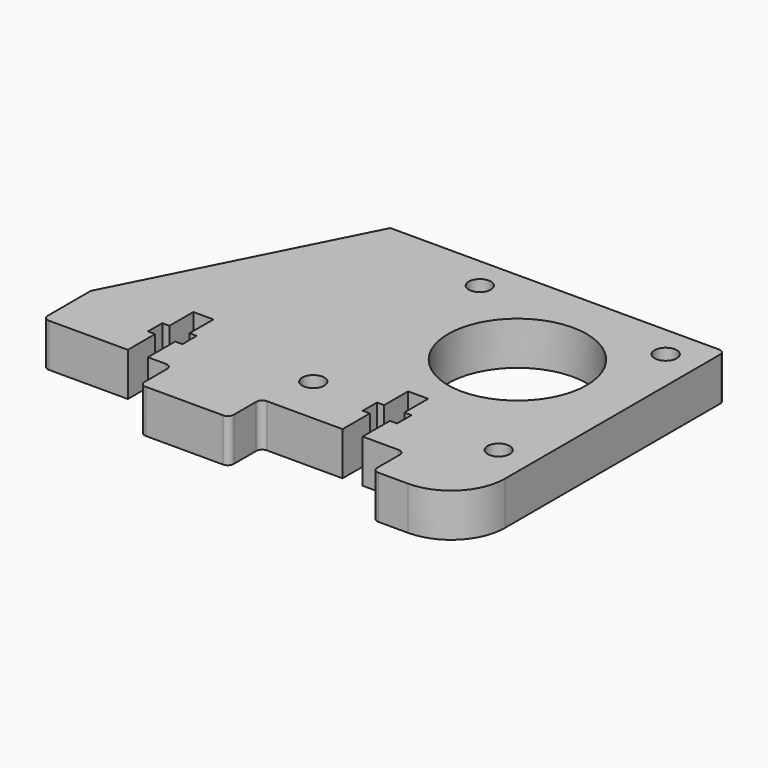
from build123d import *

# Parameters (mm, degrees)
F0_R     = 46.99
F0_R_2   = 46.986706
F0_R_3   = 294.64
F1_DEPTH = 184.15


with BuildPart() as f1:
    # F0 (on Top) → F1 (new body)
    with BuildSketch(Plane.XY):
        with BuildLine():
            ThreePointArc((564.590297, 572.830329), (557.150809, 590.790842), (539.190297, 598.230329))
            Line((539.190297, 598.230329), (-854.324554, 598.230329))
            ThreePointArc((-854.324554, 598.230329), (-857.294719, 597.391413), (-859.38711, 595.122589))
            Line((-859.38711, 595.122589), (-1351.950452, -375.304965))
            Line((-1351.950452, -375.304965), (-1351.950452, -603.904965))
            ThreePointArc((-1351.950452, -603.904965), (-1344.510965, -621.865477), (-1326.550452, -629.304965))
            Line((-1326.550452, -629.304965), (-991.270452, -629.304965))
            Line((-991.270452, -629.304965), (-991.270452, -484.524965))
            Line((-991.270452, -484.524965), (-1021.750452, -484.524965))
            Line((-1021.750452, -484.524965), (-1021.750452, -408.324965))
            Line((-1021.750452, -408.324965), (-991.270452, -408.324965))
            Line((-991.270452, -408.324965), (-991.270452, -281.324965))
            Line((-991.270452, -281.324965), (-905.926452, -281.324965))
            Line((-905.926452, -281.324965), (-905.926452, -408.324965))
            Line((-905.926452, -408.324965), (-875.446452, -408.324965))
            Line((-875.446452, -408.324965), (-875.446452, -484.524965))
            Line((-875.446452, -484.524965), (-905.926452, -484.524965))
            Line((-905.926452, -484.524965), (-905.926452, -629.304965))
            Line((-905.926452, -629.304965), (-829.139571, -629.304965))
            ThreePointArc((-829.139571, -629.304965), (-811.179058, -636.744453), (-803.739571, -654.704965))
            Line((-803.739571, -654.704965), (-803.739571, -774.084965))
            ThreePointArc((-803.739571, -774.084965), (-796.300083, -792.045477), (-778.339571, -799.484965))
            Line((-778.339571, -799.484965), (-450.679571, -799.484965))
            ThreePointArc((-450.679571, -799.484965), (-432.719058, -792.045477), (-425.279571, -774.084965))
            Line((-425.279571, -774.084965), (-425.279571, -654.704965))
            ThreePointArc((-425.279571, -654.704965), (-417.840083, -636.744453), (-399.879571, -629.304965))
            Line((-399.879571, -629.304965), (-78.648547, -629.304965))
            Line((-78.648547, -629.304965), (-78.648547, -484.524965))
            Line((-78.648547, -484.524965), (-109.128547, -484.524965))
            Line((-109.128547, -484.524965), (-109.128547, -408.324965))
            Line((-109.128547, -408.324965), (-78.648547, -408.324965))
            Line((-78.648547, -408.324965), (-78.648547, -281.324965))
            Line((-78.648547, -281.324965), (6.695453, -281.324965))
            Line((6.695453, -281.324965), (6.695453, -408.324965))
            Line((6.695453, -408.324965), (37.175453, -408.324965))
            Line((37.175453, -408.324965), (37.175453, -484.524965))
            Line((37.175453, -484.524965), (6.695453, -484.524965))
            Line((6.695453, -484.524965), (6.695453, -629.304965))
            Line((6.695453, -629.304965), (159.095453, -629.304965))
            ThreePointArc((159.095453, -629.304965), (177.055965, -636.744453), (184.495453, -654.704965))
            Line((184.495453, -654.704965), (184.495453, -774.084965))
            ThreePointArc((184.495453, -774.084965), (191.934941, -792.045477), (209.895453, -799.484965))
            Line((209.895453, -799.484965), (335.990297, -799.484965))
            ThreePointArc((335.990297, -799.484965), (497.634907, -732.529575), (564.590297, -570.884965))
            Line((564.590297, -570.884965), (564.590297, 572.830329))
        make_face()
        with Locations((-367.995667, -423.121417)):
            Circle(F0_R, mode=Mode.SUBTRACT)
        with Locations((419.586441, -423.096056)):
            Circle(F0_R_2, mode=Mode.SUBTRACT)
        with Locations((62.190297, 123.390329)):
            Circle(F0_R_3, mode=Mode.SUBTRACT)
        with Locations((-367.589703, 460.816329)):
            Circle(F0_R, mode=Mode.SUBTRACT)
        with Locations((422.350297, 460.816329)):
            Circle(F0_R, mode=Mode.SUBTRACT)
    extrude(amount=F1_DEPTH)


solid = f1.part
